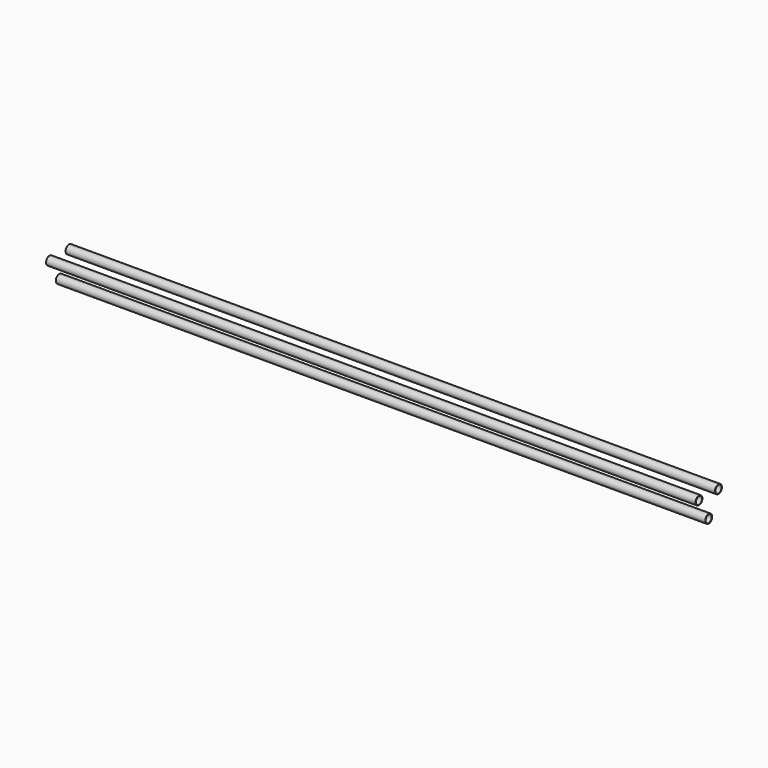
from build123d import *

# Parameters (mm, degrees)
F0_R     = 8
F0_R_2   = 7
F1_DEPTH = 1200


with BuildPart() as f1:
    # F0 (on Right) → F1 (new body)
    with BuildSketch(Plane.YZ):
        Circle(F0_R)
        Circle(F0_R_2, mode=Mode.SUBTRACT)
        with Locations((45, 0)):
            Circle(F0_R)
        with Locations((45, 0)):
            Circle(F0_R_2, mode=Mode.SUBTRACT)
        with Locations((22.5, -38.971143)):
            Circle(F0_R)
        with Locations((22.5, -38.971143)):
            Circle(F0_R_2, mode=Mode.SUBTRACT)
    extrude(amount=F1_DEPTH)


solid = f1.part
